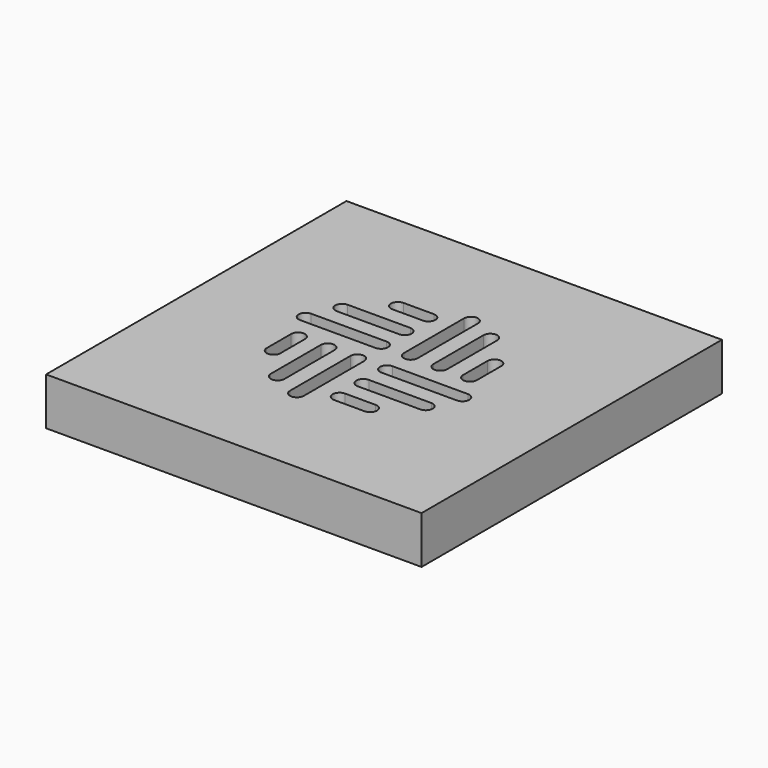
from build123d import *

# Parameters (mm, degrees)
F6_W     = 190
F6_H     = 190
F7_DEPTH = 1
F8_DEPTH = 12


with BuildPart() as f2:
    # F0 (on Top) → F2 (revolve)
    with BuildSketch(Plane.XY):
        Polygon((20.4473696649, 3.5921053495), (20.4473696649, 0), (50.5868457019, 0), (50.5868457019, 2.7842106991), (49.9868457019, 2.7842106991), (49.9868457019, 0.6), (21.0473696649, 0.6), (21.0473696649, 4.1921053495), (16.9026321679, 4.1921053495), (16.9026321679, 8.0605266564), (12.1578937396, 8.0605266564), (12.1578937396, 7.4605266564), (16.3026321679, 7.4605266564), (16.3026321679, 3.5921053495), align=None)
    revolve(axis=Axis((0, 5.4080549162, 0), (0, -1, 0)))


with BuildPart() as f5:
    # F4 (on Front) → F5 (revolve)
    with BuildSketch(Plane.XZ):
        with BuildLine():
            Line((-62.6527036447, -1.87835907), (-52, 0))
            Line((-52, 0), (0, 0))
            Line((0, 0), (0, 1))
            Line((0, 1), (-52.0874886635, 1))
            Line((-52.0874886635, 1), (-62.8263518223, -0.893551317))
            ThreePointArc((-62.8263518223, -0.893551317), (-63.6427876097, -0.6747880071), (-64, 0.091256436))
            Line((-64, 0.091256436), (-64, 4.7077492508))
            Line((-64, 4.7077492508), (-65, 4.7077492508))
            Line((-65, 4.7077492508), (-65, 0.091256436))
            ThreePointArc((-65, 0.091256436), (-64.2855752194, -1.4408324503), (-62.6527036447, -1.87835907))
        make_face()
    revolve(axis=Axis((0, 0, -2.1538473566), (0, 0, -1)))

    # F6 (on face) → F7 (cut)
    with BuildSketch(Plane(origin=(0, 0, 0), x_dir=(1, 0, 0), z_dir=(0, 0, -1))):
        Rectangle(F6_W, F6_H)
        with BuildLine():
            ThreePointArc((-22.9782505862, -41), (-26.4782505862, -37.5), (-22.9782505862, -34))
            Line((-22.9782505862, -34), (-7.5, -34))
            ThreePointArc((-7.5, -34), (-4, -37.5), (-7.5, -41))
            Line((-7.5, -41), (-22.9782505862, -41))
        make_face(mode=Mode.SUBTRACT)
        with BuildLine():
            Line((-7.5, -11), (-45.6946386352, -11))
            ThreePointArc((-45.6946386352, -11), (-49.1946386352, -7.5), (-45.6946386352, -4))
            Line((-45.6946386352, -4), (-7.5, -4))
            ThreePointArc((-7.5, -4), (-4, -7.5), (-7.5, -11))
        make_face(mode=Mode.SUBTRACT)
        with BuildLine():
            ThreePointArc((-39.1535439009, -26), (-42.6535439009, -22.5), (-39.1535439009, -19))
            Line((-39.1535439009, -19), (-7.5, -19))
            ThreePointArc((-7.5, -19), (-4, -22.5), (-7.5, -26))
            Line((-7.5, -26), (-39.1535439009, -26))
        make_face(mode=Mode.SUBTRACT)
        with BuildLine():
            Line((11, -7.5), (11, -45.6946386352))
            ThreePointArc((11, -45.6946386352), (7.5, -49.1946386352), (4, -45.6946386352))
            Line((4, -45.6946386352), (4, -7.5))
            ThreePointArc((4, -7.5), (7.5, -4), (11, -7.5))
        make_face(mode=Mode.SUBTRACT)
        with BuildLine():
            ThreePointArc((26, -39.1535439009), (22.5, -42.6535439009), (19, -39.1535439009))
            Line((19, -39.1535439009), (19, -7.5))
            ThreePointArc((19, -7.5), (22.5, -4), (26, -7.5))
            Line((26, -7.5), (26, -39.1535439009))
        make_face(mode=Mode.SUBTRACT)
        with BuildLine():
            ThreePointArc((41, -22.9782505862), (37.5, -26.4782505862), (34, -22.9782505862))
            Line((34, -22.9782505862), (34, -7.5))
            ThreePointArc((34, -7.5), (37.5, -4), (41, -7.5))
            Line((41, -7.5), (41, -22.9782505862))
        make_face(mode=Mode.SUBTRACT)
        with BuildLine():
            Line((-41, 7.5), (-41, 22.9782505862))
            ThreePointArc((-41, 22.9782505862), (-37.5, 26.4782505862), (-34, 22.9782505862))
            Line((-34, 22.9782505862), (-34, 7.5))
            ThreePointArc((-34, 7.5), (-37.5, 4), (-41, 7.5))
        make_face(mode=Mode.SUBTRACT)
        with BuildLine():
            Line((-26, 7.5), (-26, 39.1535439009))
            ThreePointArc((-26, 39.1535439009), (-22.5, 42.6535439009), (-19, 39.1535439009))
            Line((-19, 39.1535439009), (-19, 7.5))
            ThreePointArc((-19, 7.5), (-22.5, 4), (-26, 7.5))
        make_face(mode=Mode.SUBTRACT)
        with BuildLine():
            Line((-11, 7.5), (-11, 45.6946386352))
            ThreePointArc((-11, 45.6946386352), (-7.5, 49.1946386352), (-4, 45.6946386352))
            Line((-4, 45.6946386352), (-4, 7.5))
            ThreePointArc((-4, 7.5), (-7.5, 4), (-11, 7.5))
        make_face(mode=Mode.SUBTRACT)
        with BuildLine():
            ThreePointArc((39.1535439009, 26), (42.6535439009, 22.5), (39.1535439009, 19))
            Line((39.1535439009, 19), (7.5, 19))
            ThreePointArc((7.5, 19), (4, 22.5), (7.5, 26))
            Line((7.5, 26), (39.1535439009, 26))
        make_face(mode=Mode.SUBTRACT)
        with BuildLine():
            Line((7.5, 11), (45.6946386352, 11))
            ThreePointArc((45.6946386352, 11), (49.1946386352, 7.5), (45.6946386352, 4))
            Line((45.6946386352, 4), (7.5, 4))
            ThreePointArc((7.5, 4), (4, 7.5), (7.5, 11))
        make_face(mode=Mode.SUBTRACT)
        with BuildLine():
            ThreePointArc((22.9782505862, 41), (26.4782505862, 37.5), (22.9782505862, 34))
            Line((22.9782505862, 34), (7.5, 34))
            ThreePointArc((7.5, 34), (4, 37.5), (7.5, 41))
            Line((7.5, 41), (22.9782505862, 41))
        make_face(mode=Mode.SUBTRACT)
    extrude(amount=-F7_DEPTH, mode=Mode.SUBTRACT)


with BuildPart() as f8:
    # F6 (on face) → F8 (new body, symmetric)
    with BuildSketch(Plane(origin=(0, 0, 0), x_dir=(1, 0, 0), z_dir=(0, 0, -1))):
        Rectangle(F6_W, F6_H)
        with BuildLine():
            ThreePointArc((-22.9782505862, -41), (-26.4782505862, -37.5), (-22.9782505862, -34))
            Line((-22.9782505862, -34), (-7.5, -34))
            ThreePointArc((-7.5, -34), (-4, -37.5), (-7.5, -41))
            Line((-7.5, -41), (-22.9782505862, -41))
        make_face(mode=Mode.SUBTRACT)
        with BuildLine():
            Line((-7.5, -11), (-45.6946386352, -11))
            ThreePointArc((-45.6946386352, -11), (-49.1946386352, -7.5), (-45.6946386352, -4))
            Line((-45.6946386352, -4), (-7.5, -4))
            ThreePointArc((-7.5, -4), (-4, -7.5), (-7.5, -11))
        make_face(mode=Mode.SUBTRACT)
        with BuildLine():
            ThreePointArc((-39.1535439009, -26), (-42.6535439009, -22.5), (-39.1535439009, -19))
            Line((-39.1535439009, -19), (-7.5, -19))
            ThreePointArc((-7.5, -19), (-4, -22.5), (-7.5, -26))
            Line((-7.5, -26), (-39.1535439009, -26))
        make_face(mode=Mode.SUBTRACT)
        with BuildLine():
            Line((11, -7.5), (11, -45.6946386352))
            ThreePointArc((11, -45.6946386352), (7.5, -49.1946386352), (4, -45.6946386352))
            Line((4, -45.6946386352), (4, -7.5))
            ThreePointArc((4, -7.5), (7.5, -4), (11, -7.5))
        make_face(mode=Mode.SUBTRACT)
        with BuildLine():
            ThreePointArc((26, -39.1535439009), (22.5, -42.6535439009), (19, -39.1535439009))
            Line((19, -39.1535439009), (19, -7.5))
            ThreePointArc((19, -7.5), (22.5, -4), (26, -7.5))
            Line((26, -7.5), (26, -39.1535439009))
        make_face(mode=Mode.SUBTRACT)
        with BuildLine():
            ThreePointArc((41, -22.9782505862), (37.5, -26.4782505862), (34, -22.9782505862))
            Line((34, -22.9782505862), (34, -7.5))
            ThreePointArc((34, -7.5), (37.5, -4), (41, -7.5))
            Line((41, -7.5), (41, -22.9782505862))
        make_face(mode=Mode.SUBTRACT)
        with BuildLine():
            Line((-41, 7.5), (-41, 22.9782505862))
            ThreePointArc((-41, 22.9782505862), (-37.5, 26.4782505862), (-34, 22.9782505862))
            Line((-34, 22.9782505862), (-34, 7.5))
            ThreePointArc((-34, 7.5), (-37.5, 4), (-41, 7.5))
        make_face(mode=Mode.SUBTRACT)
        with BuildLine():
            Line((-26, 7.5), (-26, 39.1535439009))
            ThreePointArc((-26, 39.1535439009), (-22.5, 42.6535439009), (-19, 39.1535439009))
            Line((-19, 39.1535439009), (-19, 7.5))
            ThreePointArc((-19, 7.5), (-22.5, 4), (-26, 7.5))
        make_face(mode=Mode.SUBTRACT)
        with BuildLine():
            Line((-11, 7.5), (-11, 45.6946386352))
            ThreePointArc((-11, 45.6946386352), (-7.5, 49.1946386352), (-4, 45.6946386352))
            Line((-4, 45.6946386352), (-4, 7.5))
            ThreePointArc((-4, 7.5), (-7.5, 4), (-11, 7.5))
        make_face(mode=Mode.SUBTRACT)
        with BuildLine():
            ThreePointArc((39.1535439009, 26), (42.6535439009, 22.5), (39.1535439009, 19))
            Line((39.1535439009, 19), (7.5, 19))
            ThreePointArc((7.5, 19), (4, 22.5), (7.5, 26))
            Line((7.5, 26), (39.1535439009, 26))
        make_face(mode=Mode.SUBTRACT)
        with BuildLine():
            Line((7.5, 11), (45.6946386352, 11))
            ThreePointArc((45.6946386352, 11), (49.1946386352, 7.5), (45.6946386352, 4))
            Line((45.6946386352, 4), (7.5, 4))
            ThreePointArc((7.5, 4), (4, 7.5), (7.5, 11))
        make_face(mode=Mode.SUBTRACT)
        with BuildLine():
            ThreePointArc((22.9782505862, 41), (26.4782505862, 37.5), (22.9782505862, 34))
            Line((22.9782505862, 34), (7.5, 34))
            ThreePointArc((7.5, 34), (4, 37.5), (7.5, 41))
            Line((7.5, 41), (22.9782505862, 41))
        make_face(mode=Mode.SUBTRACT)
    extrude(amount=F8_DEPTH, both=True)


solid = Compound([f5.part, f8.part])
